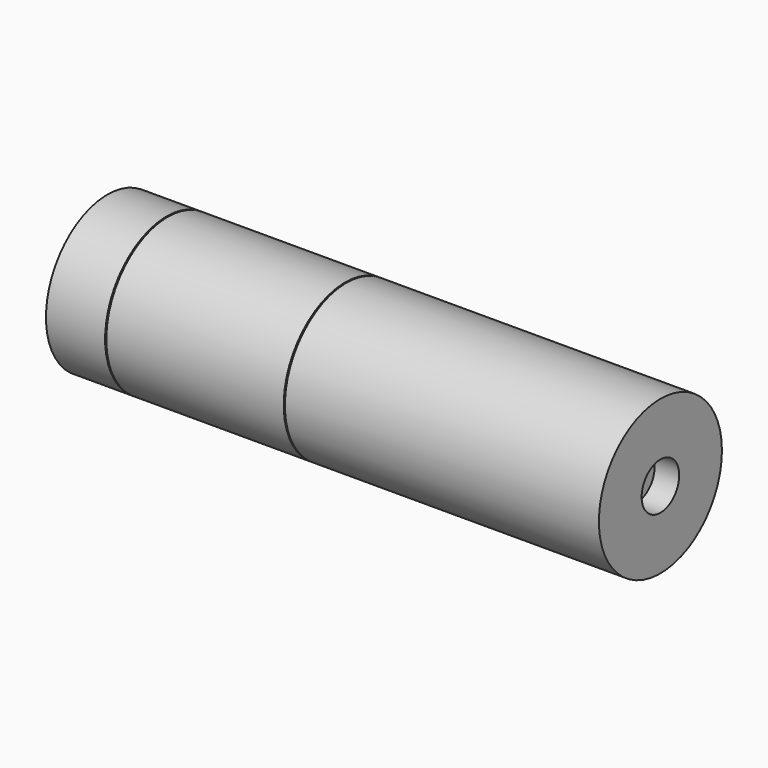
from build123d import *

# Parameters (mm, degrees)
F0_W   = 10
F0_H   = 5.5
F0_W_2 = 30
F0_W_3 = 14
F0_H_2 = 3.527812


with BuildPart() as f1:
    # F0 (on Top) → F1 (revolve)
    with BuildSketch(Plane.XY):
        with Locations((-88.5, 10.25)):
            Rectangle(F0_W, F0_H)
        with Locations((-68.3, 10.25)):
            Rectangle(F0_W_2, F0_H)
        Polygon((0, 13), (-53.1, 13), (-53.1, 7.5), (-14, 7.5), (0, 7.5), align=None)
        Polygon((-55.3, 5.3), (-53.3, 7.3), (-81.3, 7.3), (-83.3, 5.3), (-83.3, 0), (-55.3, 0), align=None)
        Polygon((-53.3, 0), (-53.3, 7.017157), (-55.1, 5.217157), (-55.1, 0), align=None)
        Polygon((-53.1, 0), (-53.1, 7.217157), (-53.3, 7.017157), (-53.3, 0), align=None)
        Polygon((-53.017157, 7.3), (-53.1, 7.217157), (-53.1, 0), (-4, 0), (-4, 3.772188), (-24, 3.772188), (-24, 7.3), align=None)
        with Locations((-7, 5.736094)):
            Rectangle(F0_W_3, F0_H_2)
    revolve(axis=Axis((-26.55, 0, 0), (1, 0, 0)))


solid = f1.part
